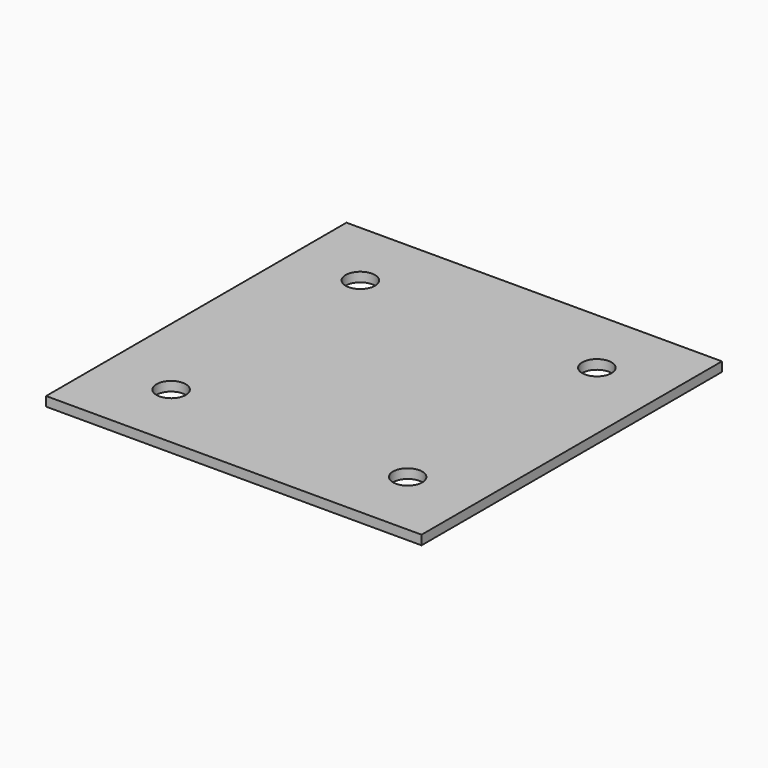
from build123d import *

# Parameters (mm, degrees)
F0_W     = 101.6
F0_H     = 101.6
F0_R     = 3.96875
F1_DEPTH = 2.54


with BuildPart() as f1:
    # F0 (on Top) → F1 (new body)
    with BuildSketch(Plane.XY):
        with Locations((-32, -32)):
            Rectangle(F0_W, F0_H)
        with Locations((-64, -64)):
            Circle(F0_R, mode=Mode.SUBTRACT)
        with Locations((0, -64)):
            Circle(F0_R, mode=Mode.SUBTRACT)
        with Locations((-64, 0)):
            Circle(F0_R, mode=Mode.SUBTRACT)
        Circle(F0_R, mode=Mode.SUBTRACT)
    extrude(amount=F1_DEPTH)


solid = f1.part
